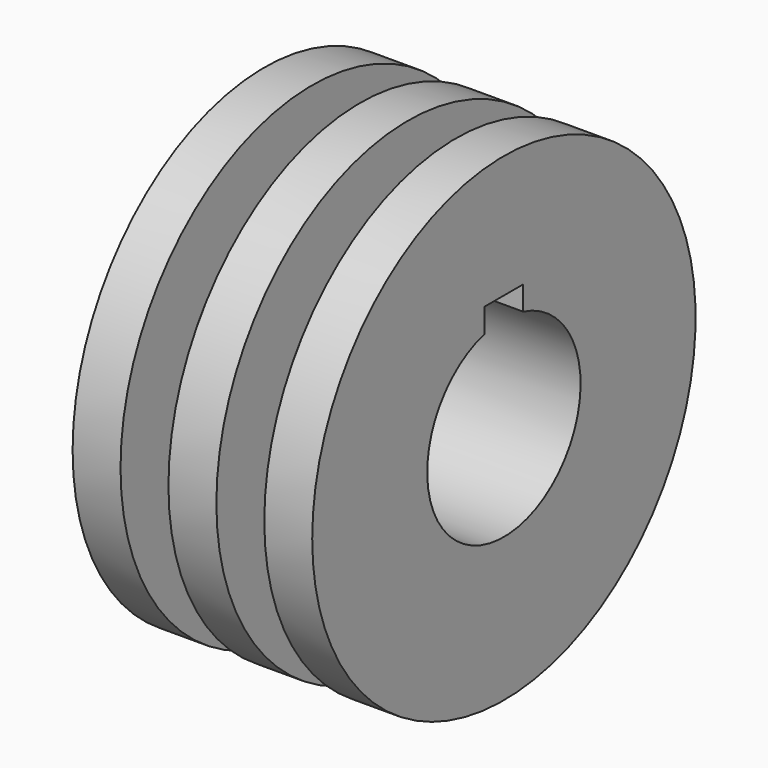
from build123d import *

# Parameters (mm, degrees)
F3_DEPTH = 50


with BuildPart() as f1:
    # F0 (on Top) → F1 (revolve)
    with BuildSketch(Plane.XY):
        Polygon((15, -25), (25, -25), (25, 25), (-25, 25), (-25, -25), (-15, -25), (-15, -10), (-5, -10), (-5, -25), (5, -25), (5, -10), (15, -10), align=None)
    revolve(axis=Axis((0, 25, 0), (-1, 0, 0)))

    # F2 (on face) → F3 (cut)
    with BuildSketch(Plane.YZ.offset(25)):
        with BuildLine():
            Line((20, 24.364917), (20, 19.364917))
            ThreePointArc((20, 19.364917), (25, -20), (30, 19.364917))
            Line((30, 19.364917), (30, 24.364917))
            Line((30, 24.364917), (25, 24.364917))
            Line((25, 24.364917), (20, 24.364917))
        make_face()
    extrude(amount=-F3_DEPTH, mode=Mode.SUBTRACT)


solid = f1.part
